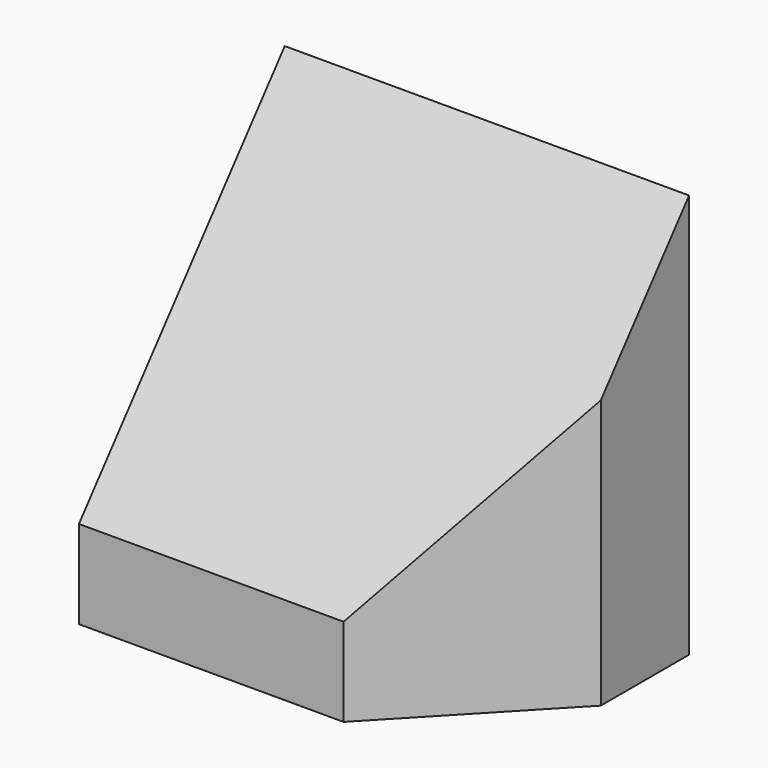
from build123d import *

# Parameters (mm, degrees)
F0_W     = 55
F0_H     = 55
F1_DEPTH = 17.5
F3_DEPTH = 55.001
F5_DEPTH = 55.001


with BuildPart() as f1:
    # F0 (on Front) → F1 (new body, symmetric)
    with BuildSketch(Plane.XZ):
        Rectangle(F0_W, F0_H)
    extrude(amount=F1_DEPTH, both=True)

    # F2 (on face) → F3 (cut, through all)
    with BuildSketch(Plane.YZ.offset(27.5)):
        Polygon((-17.5, 27.5), (-17.5, -15.5), (17.5, 27.5), align=None)
    extrude(amount=-F3_DEPTH, mode=Mode.SUBTRACT)

    # F4 (on face) → F5 (cut, through all)
    with BuildSketch(Plane(origin=(0, 0, -27.5), x_dir=(1, 0, 0), z_dir=(0, 0, -1))):
        Polygon((8.5, 17.5), (27.5, -2.5), (27.5, 17.5), align=None)
    extrude(amount=-F5_DEPTH, mode=Mode.SUBTRACT)


solid = f1.part
